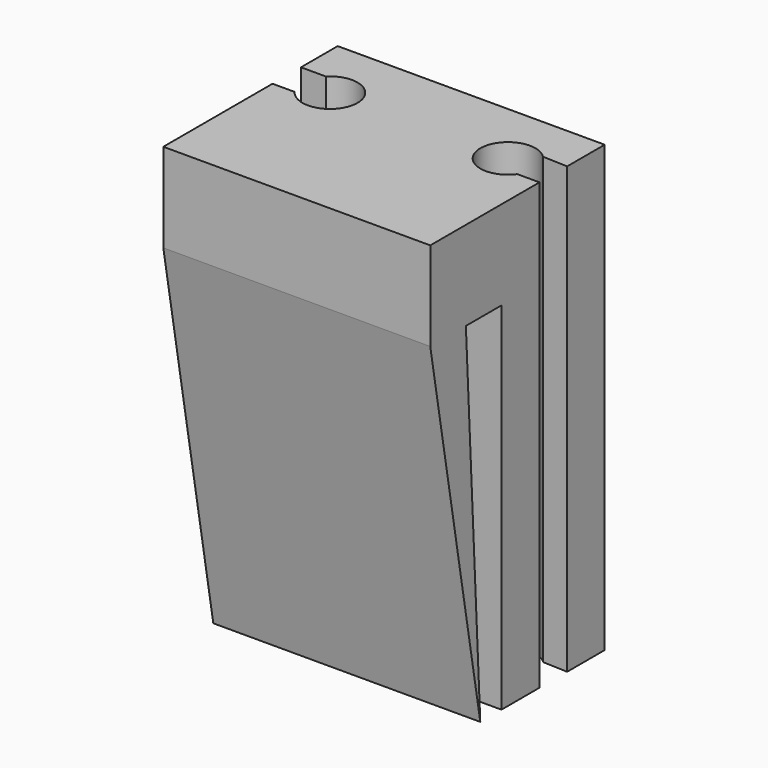
from build123d import *

# Parameters (mm, degrees)
F1_DEPTH = 12.7
F2_W     = 7.62
F2_H     = 1.3110580664
F2_H_2   = 1.3562226996
F3_DEPTH = 25.4
F4_W     = 7.62
F4_H     = 2.54
F5_DEPTH = 2.54
F7_DEPTH = 7.62


with BuildPart() as f1:
    # F0 (on Top) → F1 (new body)
    with BuildSketch(Plane.XY):
        with BuildLine():
            Line((-3.81, -0.4625546008), (-3.81, -3.175))
            Line((-3.81, -3.175), (3.81, -3.175))
            Line((3.81, -3.175), (3.81, -0.4625546008))
            Line((3.81, -0.4625546008), (3.1772142507, -0.4625546008))
            ThreePointArc((3.1772142507, -0.4625546008), (1.754829289, -0.0592090754), (3.1006408738, 0.5528838672))
            Line((3.1006408738, 0.5528838672), (3.81, 0.523305399))
            Line((3.81, 0.523305399), (3.81, 3.175))
            Line((3.81, 3.175), (-3.81, 3.175))
            Line((-3.81, 3.175), (-3.81, 0.5528838672))
            Line((-3.81, 0.5528838672), (-3.1006408738, 0.5528838672))
            ThreePointArc((-3.1006408738, 0.5528838672), (-2.2412106629, 0.7285078531), (-1.7526, 0))
            ThreePointArc((-1.7526, 0), (-2.2968372366, -0.7489129659), (-3.1772142507, -0.4625546008))
            Line((-3.1772142507, -0.4625546008), (-3.81, -0.4625546008))
        make_face()
    extrude(amount=F1_DEPTH)

    # F2 (on face) → F3 (cut)
    with BuildSketch(Plane.XY.offset(12.7)):
        with Locations((0, 2.5194709668)):
            Rectangle(F2_W, F2_H)
        with Locations((0, -2.4968886502)):
            Rectangle(F2_W, F2_H_2)
    extrude(amount=-F3_DEPTH, mode=Mode.SUBTRACT)

    # F4 (on face) → F5 (join)
    with BuildSketch(Plane.XZ.offset(1.8187773004)):
        with Locations((0, 11.43)):
            Rectangle(F4_W, F4_H)
    extrude(amount=F5_DEPTH)

    # F6 (on face) → F7 (join)
    with BuildSketch(Plane(origin=(-3.81, 0, 0), x_dir=(0, -1, 0), z_dir=(-1, 0, 0))):
        Polygon((3.0887773004, 10.16), (2.5749250781, 0), (4.3587773004, 10.16), align=None)
    extrude(amount=-F7_DEPTH)


solid = f1.part
